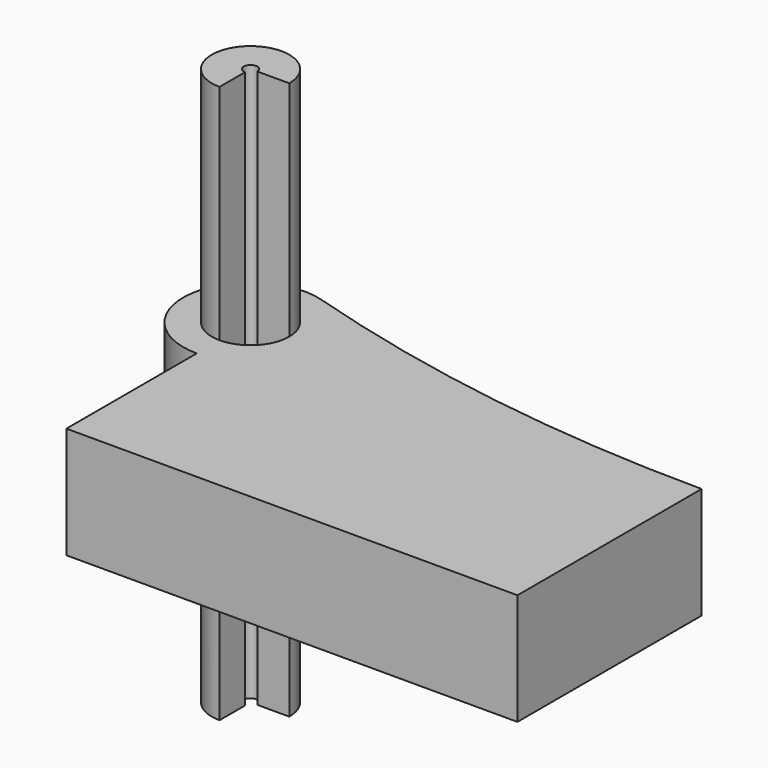
from build123d import *

# Parameters (mm, degrees)
F1_DEPTH = 12.7
F2_DEPTH = 63.5


with BuildPart() as f1:
    # F0 (on Top) → F1 (new body, symmetric)
    with BuildSketch(Plane.XY):
        with BuildLine():
            ThreePointArc((-42.5432599009, 26.2153968215), (-57.6115407888, 32.4568831269), (-51.3700544834, 17.388602239))
            Line((-51.3700544834, 17.388602239), (-51.3700544834, 24.6651966494))
            ThreePointArc((-51.3700544834, 24.6651966494), (-52.4662115373, 27.3115538754), (-49.8198543113, 26.2153968215))
            Line((-49.8198543113, 26.2153968215), (-42.5432599009, 26.2153968215))
        make_face()
        with BuildLine():
            Line((-51.3700544834, 17.388602239), (-51.3700544834, 10.8958645758))
            ThreePointArc((-51.3700544834, 10.8958645758), (-40.5375093479, 15.382851686), (-36.0505222377, 26.2153968215))
            Line((-36.0505222377, 26.2153968215), (-42.5432599009, 26.2153968215))
            ThreePointArc((-42.5432599009, 26.2153968215), (-45.128568178, 19.9739105161), (-51.3700544834, 17.388602239))
        make_face()
        with BuildLine():
            Line((-36.0505222377, 26.2153968215), (51.3700544834, 26.2153968215))
            ThreePointArc((51.3700544834, 26.2153968215), (1.6913776704, 29.8988181648), (-46.9008440242, 40.8685270706))
            ThreePointArc((-46.9008440242, 40.8685270706), (-39.0583876188, 35.3319162912), (-36.0505222377, 26.2153968215))
        make_face()
        with BuildLine():
            ThreePointArc((-46.9008440242, 40.8685270706), (-66.5220703489, 28.4747072113), (-51.3700544834, 10.8958645758))
            Line((-51.3700544834, 10.8958645758), (-51.3700544834, 17.388602239))
            ThreePointArc((-51.3700544834, 17.388602239), (-57.6115407888, 32.4568831269), (-42.5432599009, 26.2153968215))
            Line((-42.5432599009, 26.2153968215), (-36.0505222377, 26.2153968215))
            ThreePointArc((-36.0505222377, 26.2153968215), (-39.0583876188, 35.3319162912), (-46.9008440242, 40.8685270706))
        make_face()
        with BuildLine():
            Line((-51.3700544834, -26.2153968215), (51.3700544834, -26.2153968215))
            Line((51.3700544834, -26.2153968215), (51.3700544834, 26.2153968215))
            Line((51.3700544834, 26.2153968215), (-36.0505222377, 26.2153968215))
            ThreePointArc((-36.0505222377, 26.2153968215), (-40.5375093479, 15.382851686), (-51.3700544834, 10.8958645758))
            Line((-51.3700544834, 10.8958645758), (-51.3700544834, -26.2153968215))
        make_face()
    extrude(amount=F1_DEPTH, both=True)


with BuildPart() as f2:
    # F0 (on Top) → F2 (new body, symmetric)
    with BuildSketch(Plane.XY):
        with BuildLine():
            ThreePointArc((-42.5432599009, 26.2153968215), (-57.6115407888, 32.4568831269), (-51.3700544834, 17.388602239))
            Line((-51.3700544834, 17.388602239), (-51.3700544834, 24.6651966494))
            ThreePointArc((-51.3700544834, 24.6651966494), (-52.4662115373, 27.3115538754), (-49.8198543113, 26.2153968215))
            Line((-49.8198543113, 26.2153968215), (-42.5432599009, 26.2153968215))
        make_face()
    extrude(amount=F2_DEPTH, both=True)


solid = Compound([f1.part, f2.part])
